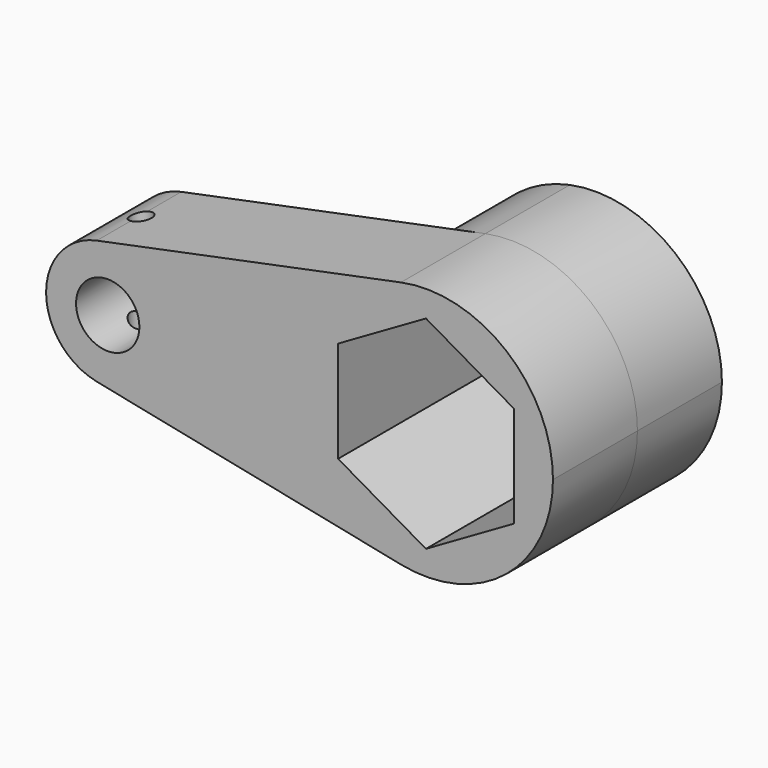
from build123d import *

# Parameters (mm, degrees)
F1_DEPTH       = 25
F2_DEPTH       = 25
F3_DEPTH       = 25
F5_START       = -25
F5_DEPTH       = 25.001
F6_DEPTH       = 25
F7_DEPTH       = 50.001
F8_R           = 7.5
F9_DEPTH       = 25
F10_R          = 2.5
F11_DEPTH      = 25
F11_DEPTH_BACK = 25


with BuildPart() as f1:
    # F0 (on Front) → F1 (new body)
    with BuildSketch(Plane.XZ):
        with BuildLine():
            ThreePointArc((-38.6520479365, -14.6969384567), (-26.165214956, -11.6189500386), (-20.6520479365, 0))
            ThreePointArc((-20.6520479365, 0), (-26.165214956, 11.6189500386), (-38.6520479365, 14.6969384567))
            ThreePointArc((-38.6520479365, 14.6969384567), (-50.6520479365, 0), (-38.6520479365, -14.6969384567))
        make_face()
        with BuildLine():
            ThreePointArc((-38.6520479365, 14.6969384567), (-26.165214956, 11.6189500386), (-20.6520479365, 0))
            ThreePointArc((-20.6520479365, 0), (-26.165214956, -11.6189500386), (-38.6520479365, -14.6969384567))
            Line((-38.6520479365, -14.6969384567), (33.3479520635, -29.3938769134))
            ThreePointArc((33.3479520635, -29.3938769134), (9.3479520635, 0), (33.3479520635, 29.3938769134))
            Line((33.3479520635, 29.3938769134), (-38.6520479365, 14.6969384567))
        make_face()
        with BuildLine():
            ThreePointArc((69.3479520635, 0), (58.3216180245, 23.2379000772), (33.3479520635, 29.3938769134))
            ThreePointArc((33.3479520635, 29.3938769134), (9.3479520635, 0), (33.3479520635, -29.3938769134))
            ThreePointArc((33.3479520635, -29.3938769134), (58.3216180245, -23.2379000772), (69.3479520635, 0))
        make_face()
    extrude(amount=F1_DEPTH)

    # F0 (on Front) → F2 (join)
    with BuildSketch(Plane.XZ):
        with BuildLine():
            ThreePointArc((69.3479520635, 0), (58.3216180245, 23.2379000772), (33.3479520635, 29.3938769134))
            ThreePointArc((33.3479520635, 29.3938769134), (9.3479520635, 0), (33.3479520635, -29.3938769134))
            ThreePointArc((33.3479520635, -29.3938769134), (58.3216180245, -23.2379000772), (69.3479520635, 0))
        make_face()
    extrude(amount=F2_DEPTH)

    # F0 (on Front) → F3 (join)
    with BuildSketch(Plane.XZ):
        with BuildLine():
            ThreePointArc((69.3479520635, 0), (58.3216180245, 23.2379000772), (33.3479520635, 29.3938769134))
            ThreePointArc((33.3479520635, 29.3938769134), (9.3479520635, 0), (33.3479520635, -29.3938769134))
            ThreePointArc((33.3479520635, -29.3938769134), (58.3216180245, -23.2379000772), (69.3479520635, 0))
        make_face()
    extrude(amount=-F3_DEPTH)

    # F1_face (on face) → F5 (cut)
    with BuildSketch(Plane(origin=(15.2359623928, -25, 0), x_dir=(1, 0, 0), z_dir=(0, -1, 0)).offset(F5_START)):
        with BuildLine():
            Line((18.1119896706, 29.3938769134), (-53.8880103294, 14.6969384567))
            ThreePointArc((-53.8880103294, 14.6969384567), (-65.8880103294, 0), (-53.8880103294, -14.6969384567))
            Line((-53.8880103294, -14.6969384567), (18.1119896706, -29.3938769134))
            ThreePointArc((18.1119896706, -29.3938769134), (54.1119896706, 0), (18.1119896706, 29.3938769134))
        make_face()
    extrude(amount=-F5_DEPTH, mode=Mode.SUBTRACT)

    # F0 (on Front) → F6 (join)
    with BuildSketch(Plane.XZ):
        with BuildLine():
            ThreePointArc((69.3479520635, 0), (58.3216180245, 23.2379000772), (33.3479520635, 29.3938769134))
            ThreePointArc((33.3479520635, 29.3938769134), (9.3479520635, 0), (33.3479520635, -29.3938769134))
            ThreePointArc((33.3479520635, -29.3938769134), (58.3216180245, -23.2379000772), (69.3479520635, 0))
        make_face()
    extrude(amount=-F6_DEPTH)

    # F4 (on face) → F7 (cut, through all)
    with BuildSketch(Plane(origin=(0, 25, 0), x_dir=(-1, 0, 0), z_dir=(0, 1, 0))):
        Polygon((-18.48410815, -12.1983237636), (-18.48410815, 11.8132381481), (-39.2787307501, 23.8190191039), (-60.0733533502, 11.8132381481), (-60.0733533502, -12.1983237636), (-39.2787307501, -24.2041047195), align=None)
    extrude(amount=-F7_DEPTH, mode=Mode.SUBTRACT)

    # F8 (on face) → F9 (cut)
    with BuildSketch(Plane.XZ):
        with Locations((-36.0623635352, 0)):
            Circle(F8_R)
    extrude(amount=F9_DEPTH, mode=Mode.SUBTRACT)

    # F10 (on Top) → F11 (cut, two sides)
    with BuildSketch(Plane.XY) as f11_sk:
        with Locations((-38.1520479365, -12.5)):
            Circle(F10_R)
    extrude(amount=-F11_DEPTH, mode=Mode.SUBTRACT)
    extrude(f11_sk.sketch, amount=F11_DEPTH_BACK, mode=Mode.SUBTRACT)


solid = f1.part
